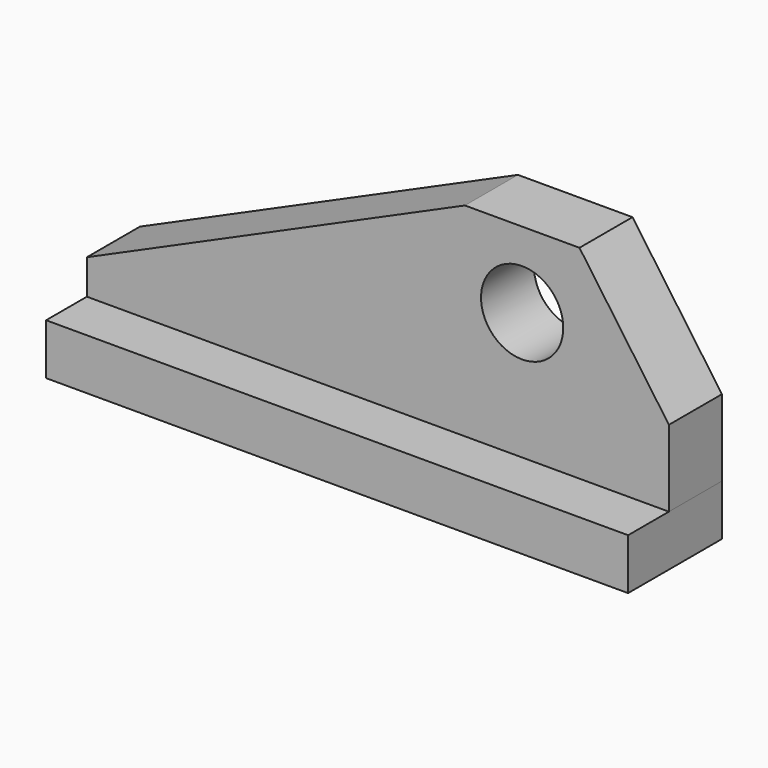
from build123d import *

# Parameters (mm, degrees)
F0_W     = 144.965879
F0_H     = 12.7
F1_DEPTH = 29.21
F0_R     = 10.24071
F2_DEPTH = 16.51


with BuildPart() as f1:
    # F0 (on Front) → F1 (new body)
    with BuildSketch(Plane.XZ):
        with Locations((-0.154876, -15.001695)):
            Rectangle(F0_W, F0_H)
    extrude(amount=F1_DEPTH)

    # F0 (on Front) → F2 (join)
    with BuildSketch(Plane.XZ):
        Polygon((50.058044, 41.97196), (21.528054, 41.97196), (-72.637815, 0), (-72.637815, -8.651695), (72.328064, -8.651695), (72.328064, -2.632929), (72.328064, 10.398305), align=None)
        with Locations((35.776838, 23.076834)):
            Circle(F0_R, mode=Mode.SUBTRACT)
        with Locations((-0.154876, -15.001695)):
            Rectangle(F0_W, F0_H)
    extrude(amount=F2_DEPTH)


solid = f1.part
